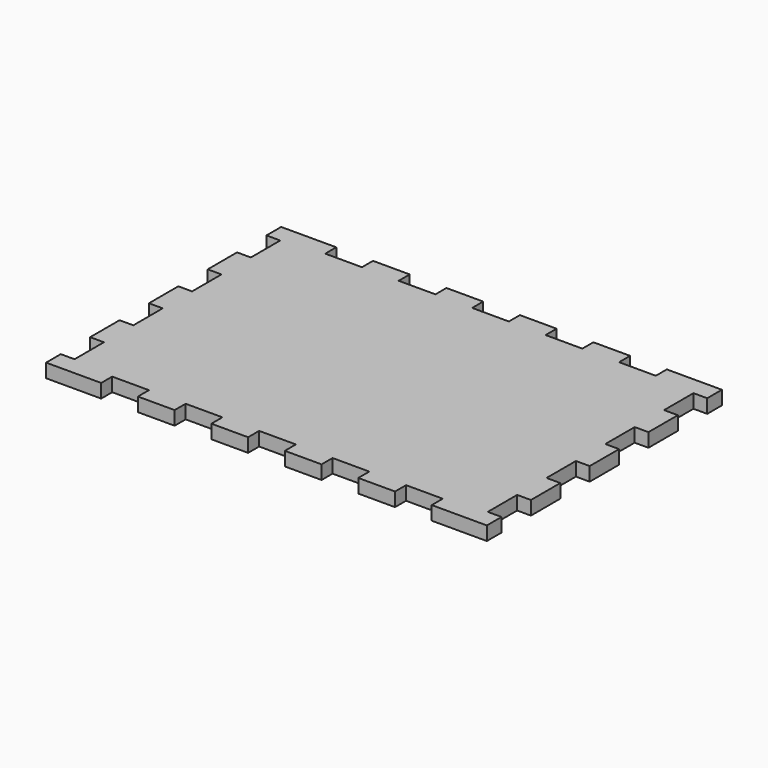
from build123d import *

# Parameters (mm, degrees)
F0_W     = 152.4
F0_H     = 101.6
F1_DEPTH = 4.7625
F2_W     = 12.7
F2_H     = 4.7625
F2_W_2   = 4.7625
F2_H_2   = 12.7
F3_DEPTH = 25.4


with BuildPart() as f1:
    # F0 (on Top) → F1 (new body)
    with BuildSketch(Plane.XY):
        Rectangle(F0_W, F0_H)
    extrude(amount=F1_DEPTH)

    # F2 (on face) → F3 (cut)
    with BuildSketch(Plane.XY.offset(4.7625)):
        with Locations((-50.8, 48.41875)):
            Rectangle(F2_W, F2_H)
        with Locations((-25.4, 48.41875)):
            Rectangle(F2_W, F2_H)
        with Locations((0, 48.41875)):
            Rectangle(F2_W, F2_H)
        with Locations((-73.81875, -38.1)):
            Rectangle(F2_W_2, F2_H_2)
        with Locations((-73.81875, -12.7)):
            Rectangle(F2_W_2, F2_H_2)
        with Locations((-73.81875, 12.7)):
            Rectangle(F2_W_2, F2_H_2)
        with Locations((-50.8, -48.41875)):
            Rectangle(F2_W, F2_H)
        with Locations((-25.4, -48.41875)):
            Rectangle(F2_W, F2_H)
        with Locations((0, -48.41875)):
            Rectangle(F2_W, F2_H)
        with Locations((73.81875, 12.7)):
            Rectangle(F2_W_2, F2_H_2)
        with Locations((73.81875, -12.7)):
            Rectangle(F2_W_2, F2_H_2)
        with Locations((73.81875, -38.1)):
            Rectangle(F2_W_2, F2_H_2)
        with Locations((-73.81875, 38.1)):
            Rectangle(F2_W_2, F2_H_2)
        with Locations((25.4, 48.41875)):
            Rectangle(F2_W, F2_H)
        with Locations((50.8, 48.41875)):
            Rectangle(F2_W, F2_H)
        with Locations((25.4, -48.41875)):
            Rectangle(F2_W, F2_H)
        with Locations((50.8, -48.41875)):
            Rectangle(F2_W, F2_H)
        with Locations((73.81875, 38.1)):
            Rectangle(F2_W_2, F2_H_2)
    extrude(amount=-F3_DEPTH, mode=Mode.SUBTRACT)


solid = f1.part
